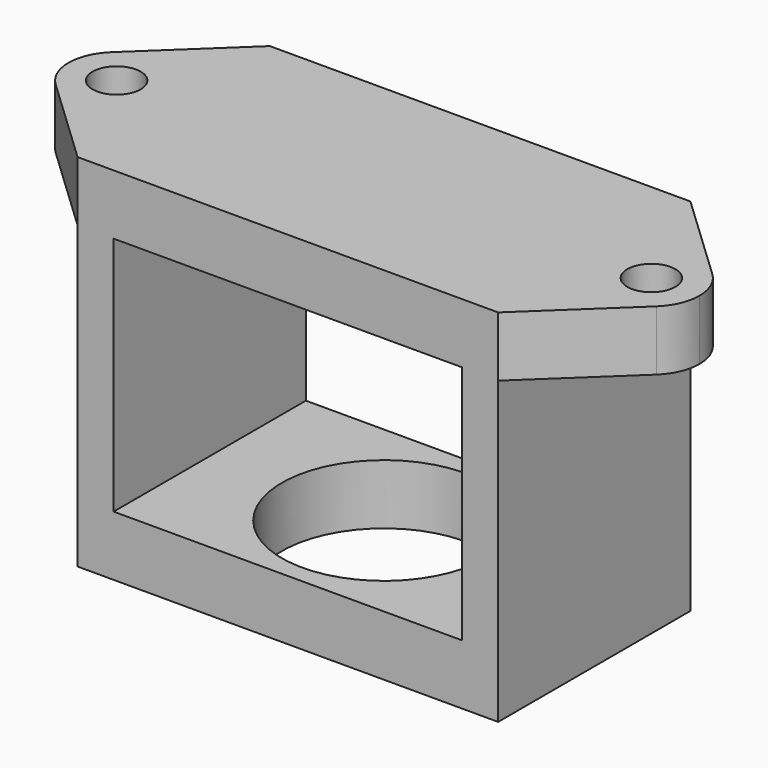
from build123d import *

# Parameters (mm, degrees)
F0_R     = 2
F0_W     = 3
F0_H     = 20
F0_W_2   = 29
F1_DEPTH = 5
F2_DEPTH = 20
F3_W     = 3
F3_H     = 20
F3_W_2   = 32
F3_R     = 8.5
F4_DEPTH = 5


with BuildPart() as f1:
    # F0 (on Top) → F1 (new body)
    with BuildSketch(Plane.XY):
        with BuildLine():
            Line((-17.5, -10), (-17.5, 10))
            Line((-17.5, 10), (-24.9989359016, 2.9057445533))
            ThreePointArc((-24.9989359016, 2.9057445533), (-20.6681883182, 3.6739449919), (-18.25, 0))
            ThreePointArc((-18.25, 0), (-20.6681883182, -3.6739449919), (-24.9989359016, -2.9057445533))
            Line((-24.9989359016, -2.9057445533), (-17.5, -10))
        make_face()
        with BuildLine():
            ThreePointArc((-18.25, 0), (-20.6681883182, 3.6739449919), (-24.9989359016, 2.9057445533))
            ThreePointArc((-24.9989359016, 2.9057445533), (-26.25, 0), (-24.9989359016, -2.9057445533))
            ThreePointArc((-24.9989359016, -2.9057445533), (-20.6681883182, -3.6739449919), (-18.25, 0))
        make_face()
        with Locations((-22.25, 0)):
            Circle(F0_R, mode=Mode.SUBTRACT)
        with Locations((-16, 0)):
            Rectangle(F0_W, F0_H)
        Rectangle(F0_W_2, F0_H)
        with Locations((16, 0)):
            Rectangle(F0_W, F0_H)
        with BuildLine():
            Line((24.9989359016, 2.9057445533), (17.5, 10))
            Line((17.5, 10), (17.5, -10))
            Line((17.5, -10), (24.9989359016, -2.9057445533))
            ThreePointArc((24.9989359016, -2.9057445533), (18.25, 0), (24.9989359016, 2.9057445533))
        make_face()
        with BuildLine():
            ThreePointArc((26.25, 0), (25.9239449919, 1.5818116818), (24.9989359016, 2.9057445533))
            ThreePointArc((24.9989359016, 2.9057445533), (18.25, 0), (24.9989359016, -2.9057445533))
            ThreePointArc((24.9989359016, -2.9057445533), (25.9239449919, -1.5818116818), (26.25, 0))
        make_face()
        with Locations((22.25, 0)):
            Circle(F0_R, mode=Mode.SUBTRACT)
    extrude(amount=F1_DEPTH)

    # F0 (on Top) → F2 (join)
    with BuildSketch(Plane.XY):
        with Locations((-16, 0)):
            Rectangle(F0_W, F0_H)
        with Locations((16, 0)):
            Rectangle(F0_W, F0_H)
    extrude(amount=-F2_DEPTH)

    # F3 (on face) → F4 (join)
    with BuildSketch(Plane(origin=(0, 0, -20), x_dir=(1, 0, 0), z_dir=(0, 0, -1))):
        with Locations((-16, 0)):
            Rectangle(F3_W, F3_H)
        with Locations((1.5, 0)):
            Rectangle(F3_W_2, F3_H)
        Circle(F3_R, mode=Mode.SUBTRACT)
    extrude(amount=F4_DEPTH)


solid = f1.part
